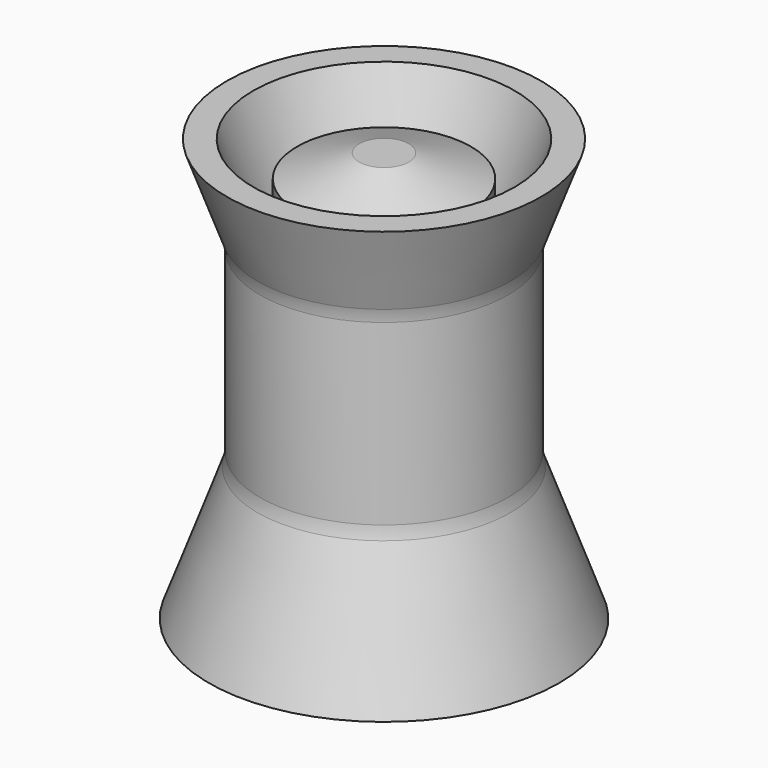
from build123d import *

# Parameters (mm, degrees)
F2_R = 4.7625


with BuildPart() as f1:
    # F0 (on Front) → F1 (revolve)
    with BuildSketch(Plane.XZ):
        Polygon((0, 52.3875), (0, 0), (3.175, 0), (11.1125, 2.889014), (11.1125, 4.7625), (6.35, 4.7625), (6.35, 47.625), (11.1125, 47.625), (11.1125, 49.498486), (3.175, 52.3875), align=None)
        Polygon((-15.875, 17.926123), (-22.399575, 0), (-19.020811, 0), (-11.509375, 20.6375), (-11.509375, 25.4), (-6.746875, 25.4), (-6.746875, 34.925), (-11.509375, 34.925), (-11.509375, 39.6875), (-16.7096, 53.975), (-20.088364, 53.975), (-15.875, 42.398877), align=None)
    revolve(axis=Axis((0, 0, -7.775913), (0, 0, -1)))

    # F2
    f2_edges = [f1.edges().sort_by_distance(p)[0] for p in [
        (15.875, 0, 42.398877),
        (15.875, 0, 17.926123),
    ]]
    fillet(f2_edges, radius=F2_R)


solid = f1.part
